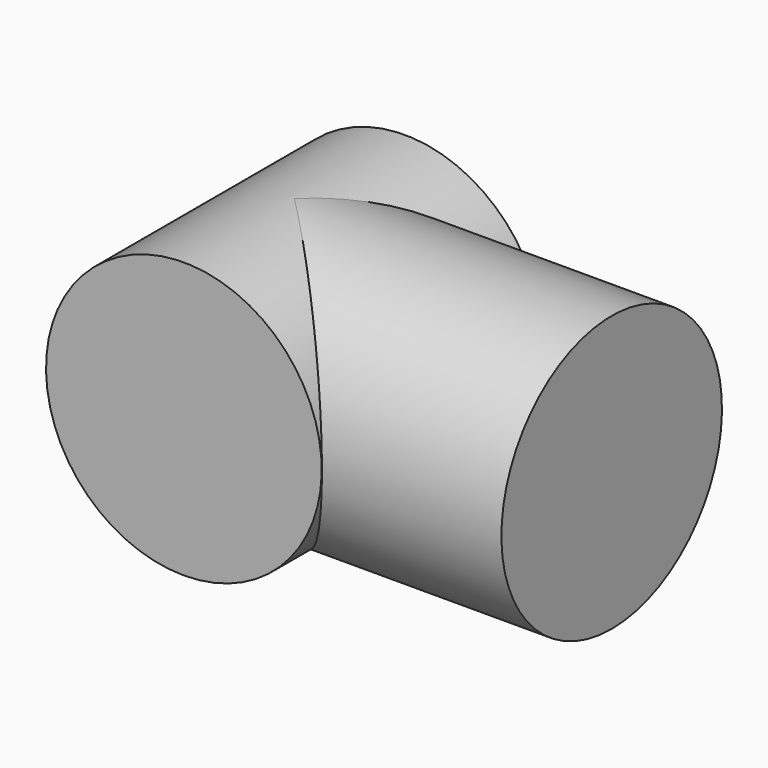
from build123d import *

# Parameters (mm, degrees)
CYLINDER062_R             = 13.9827
CYLINDER062_DEPTH         = 28.0162
CYLINDER061_R             = 13.9827
CYLINDER061_DEPTH         = 32.1945
FUSION023_PLACEMENT_ANGLE = 90


with BuildPart() as cylinder062:
    # Cylinder062 → Cylinder062 (new body)
    with BuildSketch(Plane.XZ.offset(-14.0081)):
        Circle(CYLINDER062_R)
    extrude(amount=CYLINDER062_DEPTH)


with BuildPart() as rear_outer_slip_l:
    # Cylinder061 → Cylinder061 (new body)
    with BuildSketch(Plane.XY):
        Circle(CYLINDER061_R)
    extrude(amount=CYLINDER061_DEPTH)

    # Fusion023: union Cylinder062
    add(cylinder062.part)


with BuildPart() as rear_outer_slip_l_1:
    # Fusion023 placement: moved
    add(rear_outer_slip_l.part.moved(Location((-452, -51, -18))).rotate(Axis((-452, -51, -18), (0, 1, 0)), FUSION023_PLACEMENT_ANGLE))


solid = rear_outer_slip_l_1.part
